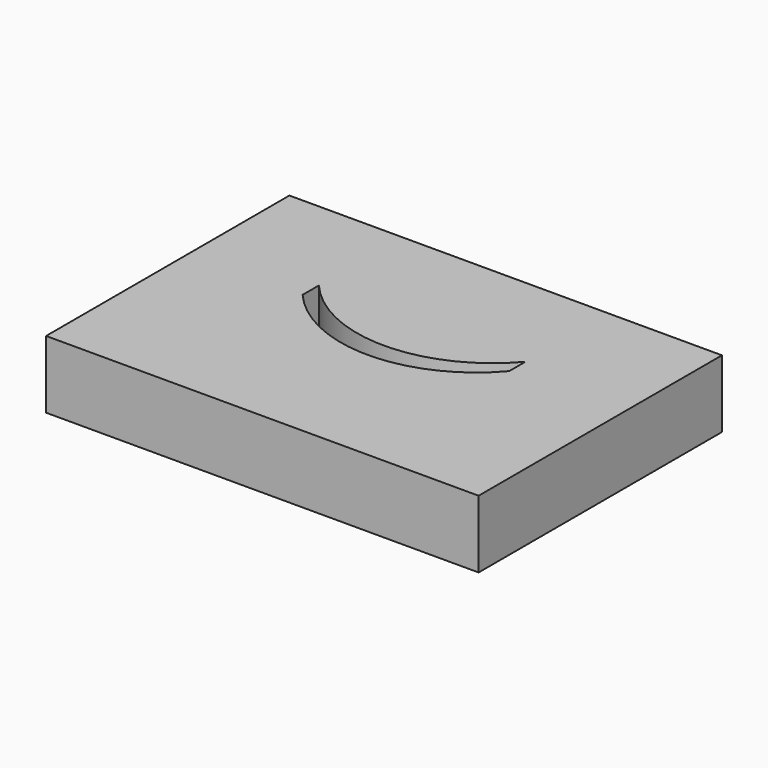
from build123d import *

# Parameters (mm, degrees)
F0_W     = 64
F0_H     = 45
F1_DEPTH = 10


with BuildPart() as f1:
    # F0 (on Top) → F1 (new body)
    with BuildSketch(Plane.XY):
        Rectangle(F0_W, F0_H)
        with BuildLine():
            ThreePointArc((15.282927, 4.053659), (0, -3), (-15.282927, 4.053659))
            Line((-15.282927, 4.053659), (-15.282927, 7.053659))
            ThreePointArc((-15.282927, 7.053659), (0, 0), (15.282927, 7.053659))
            Line((15.282927, 7.053659), (15.282927, 4.053659))
        make_face(mode=Mode.SUBTRACT)
    extrude(amount=F1_DEPTH)


solid = f1.part
